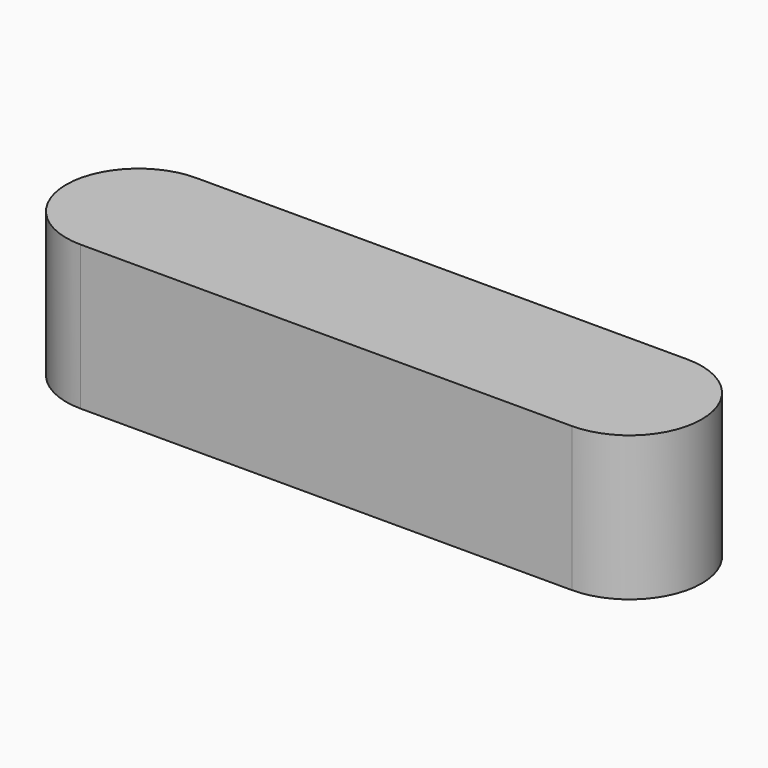
from build123d import *

# Parameters (mm, degrees)
PAD_DEPTH = 5


with BuildPart() as part:
    # Sketch → Pad (new body)
    with BuildSketch(Plane.XY):
        with BuildLine():
            ThreePointArc((0, 2.5), (-2.5, 0), (0, -2.5))
            Line((0, -2.5), (17, -2.5))
            ThreePointArc((17, -2.5), (19.5, 0), (17, 2.5))
            Line((17, 2.5), (0, 2.5))
        make_face()
    extrude(amount=PAD_DEPTH)


solid = part.part
